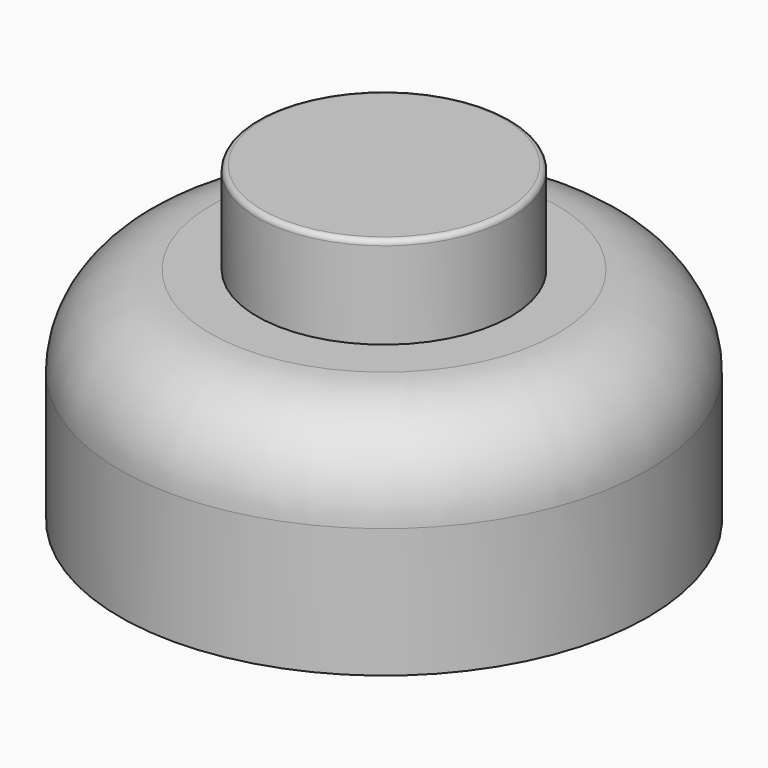
from build123d import *

# Parameters (mm, degrees)
F0_R     = 51
F1_DEPTH = 42.5
F2_R     = 5
F3_DEPTH = 25
F4_R     = 17.5
F5_R     = 24.5
F6_DEPTH = 17.8
F7_R     = 1


with BuildPart() as f1:
    # F0 (on Top) → F1 (new body)
    with BuildSketch(Plane.XY):
        Circle(F0_R)
    extrude(amount=F1_DEPTH)

    # F2 (on Top) → F3 (cut)
    with BuildSketch(Plane.XY):
        with Locations((0, -35)):
            Circle(F2_R)
        with Locations((30.310889, -17.5)):
            Circle(F2_R)
        with Locations((30.310889, 17.5)):
            Circle(F2_R)
        with Locations((0, 35)):
            Circle(F2_R)
        with Locations((-30.310889, 17.5)):
            Circle(F2_R)
        with Locations((-30.310889, -17.5)):
            Circle(F2_R)
        Circle(F2_R)
    extrude(amount=F3_DEPTH, mode=Mode.SUBTRACT)

    # F4
    f4_edges = [f1.edges().sort_by_distance(p)[0] for p in [
        (-51, 0, 42.5),
    ]]
    fillet(f4_edges, radius=F4_R)

    # F5 (on face) → F6 (join)
    with BuildSketch(Plane.XY.offset(42.5)):
        Circle(F5_R)
    extrude(amount=F6_DEPTH)

    # F7
    f7_edges = [f1.edges().sort_by_distance(p)[0] for p in [
        (-24.5, 0, 60.3),
    ]]
    fillet(f7_edges, radius=F7_R)


solid = f1.part
